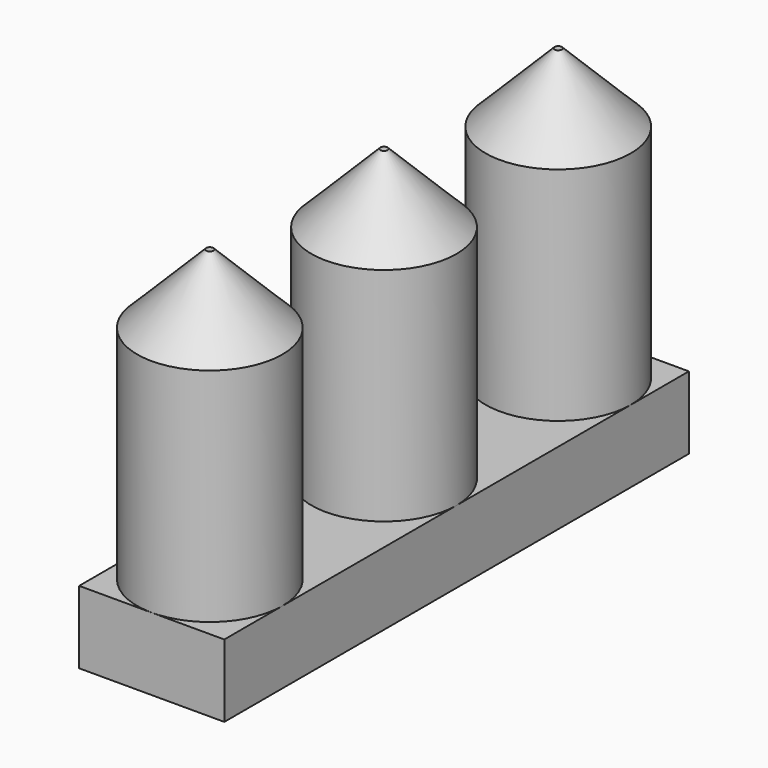
from build123d import *

# Parameters (mm, degrees)
CYLINDER_R        = 2
CYLINDER_DEPTH    = 10
CHAMFER_SIZE      = 1.9
CYLINDER001_R     = 2
CYLINDER001_DEPTH = 10
CHAMFER001_SIZE   = 1.9
CYLINDER002_R     = 2
CYLINDER002_DEPTH = 10
CHAMFER002_SIZE   = 1.9
BOX_W             = 4
BOX_H             = 16
BOX_DEPTH         = 2


with BuildPart() as chamfer_body:
    # Cylinder → Cylinder (new body)
    with BuildSketch(Plane.XY):
        Circle(CYLINDER_R)
    extrude(amount=CYLINDER_DEPTH)

    # Chamfer
    chamfer_edges = [chamfer_body.edges().sort_by_distance(p)[0] for p in [
        (-2, 0, 10),
    ]]
    chamfer(chamfer_edges, length=CHAMFER_SIZE)


with BuildPart() as chamfer001:
    # Cylinder001 → Cylinder001 (new body)
    with BuildSketch(Plane.XY):
        Circle(CYLINDER001_R)
    extrude(amount=CYLINDER001_DEPTH)

    # Chamfer001
    chamfer001_edges = [chamfer001.edges().sort_by_distance(p)[0] for p in [
        (-2, 0, 10),
    ]]
    chamfer(chamfer001_edges, length=CHAMFER001_SIZE)


with BuildPart() as chamfer001_1:
    # Chamfer001 placement: moved
    add(chamfer001.part.moved(Location((0, 6, 0))))


with BuildPart() as chamfer002:
    # Cylinder002 → Cylinder002 (new body)
    with BuildSketch(Plane.XY):
        Circle(CYLINDER002_R)
    extrude(amount=CYLINDER002_DEPTH)

    # Chamfer002
    chamfer002_edges = [chamfer002.edges().sort_by_distance(p)[0] for p in [
        (-2, 0, 10),
    ]]
    chamfer(chamfer002_edges, length=CHAMFER002_SIZE)


with BuildPart() as chamfer002_1:
    # Chamfer002 placement: moved
    add(chamfer002.part.moved(Location((0, 12, 0))))


with BuildPart() as cubo:
    # Box → Box (new body)
    with BuildSketch(Plane(origin=(-2, -2, 0), x_dir=(1, 0, 0), z_dir=(0, 0, 1))):
        with Locations((2, 8)):
            Rectangle(BOX_W, BOX_H)
    extrude(amount=BOX_DEPTH)


solid = Compound([chamfer_body.part, chamfer001_1.part, chamfer002_1.part, cubo.part])
